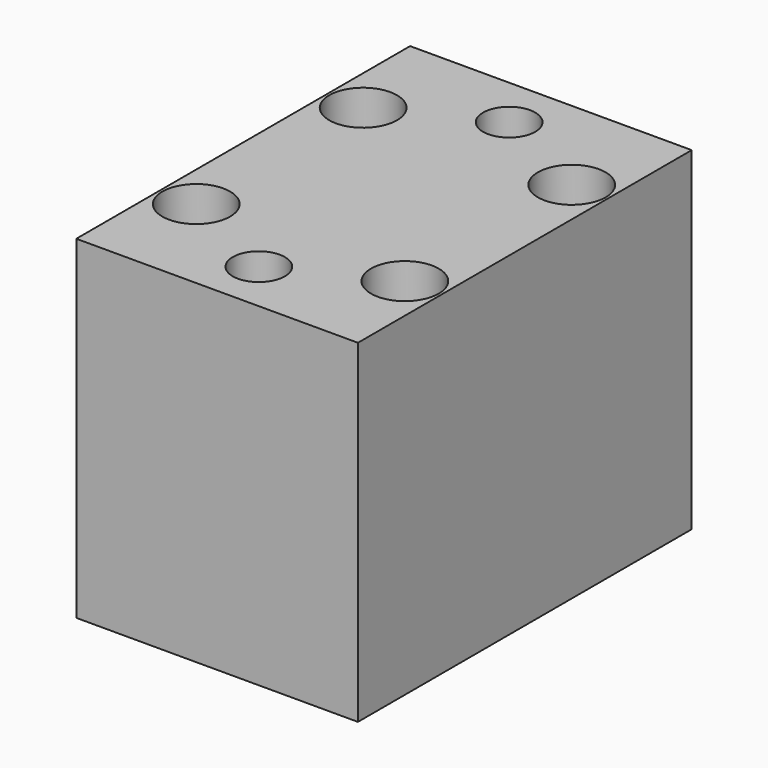
from build123d import *

# Parameters (mm, degrees)
F0_W           = 27
F0_H           = 40
F1_DEPTH       = 32
F3_D           = 3.3
F3_CBORE_D     = 6.5
F3_CBORE_DEPTH = 10
F4_D           = 5


with BuildPart() as f1:
    # F0 (on Top) → F1 (new body)
    with BuildSketch(Plane.XY):
        with Locations((-23.3004702032, -43.8329163194)):
            Rectangle(F0_W, F0_H)
    extrude(amount=F1_DEPTH)

    # F3 (through all)
    with Locations(Plane.XY.offset(32)):
        with Locations((-33.3004702032, -33.8329163194), (-13.3004702032, -33.8329163194), (-13.3004702032, -53.8329163194), (-33.3004702032, -53.8329163194)):
            CounterBoreHole(F3_D / 2, F3_CBORE_D / 2, F3_CBORE_DEPTH)

    # F4 (through all)
    with Locations(Plane.XY.offset(32)):
        with Locations((-23.3004702032, -28.8329163194), (-23.3004702032, -58.8329163194)):
            Hole(F4_D / 2)


solid = f1.part
